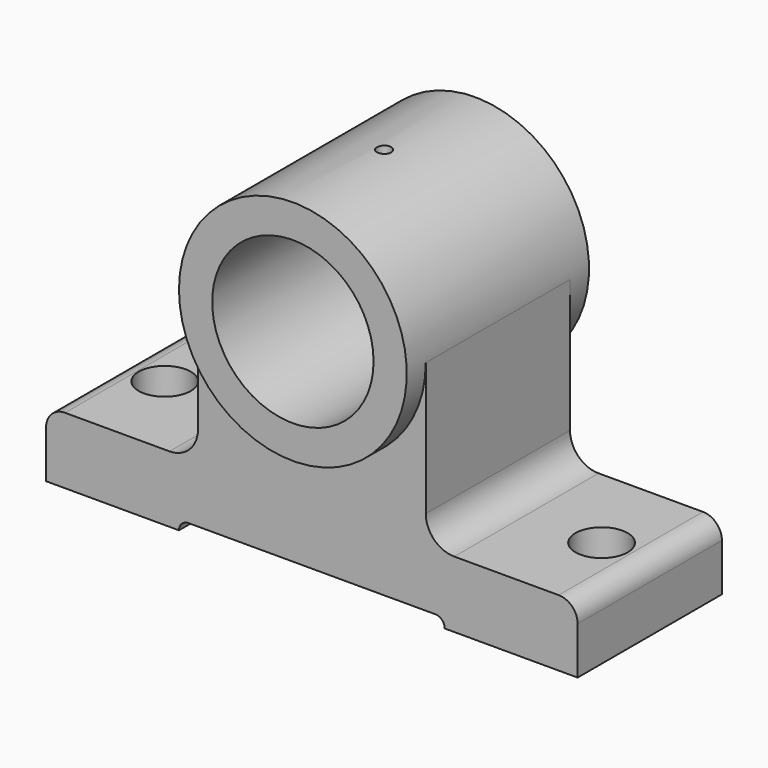
from build123d import *

# Parameters (mm, degrees)
F1_DEPTH = 30.1625
F0_R     = 26.9875
F2_DEPTH = 38.1
F3_R     = 8.73125
F4_DEPTH = 25.4
F5_R     = 8.73125
F6_DEPTH = 25.4
F8_R     = 2.38125
F9_DEPTH = 25.4


with BuildPart() as f1:
    # F0 (on Front) → F1 (new body, symmetric)
    with BuildSketch(Plane.XZ):
        with BuildLine():
            Line((-88.9, 15.875), (-88.9, 0))
            Line((-88.9, 0), (-44.45, 0))
            ThreePointArc((-44.45, 0), (-43.520064, 2.245064), (-41.275, 3.175))
            Line((-41.275, 3.175), (41.275, 3.175))
            ThreePointArc((41.275, 3.175), (43.520064, 2.245064), (44.45, 0))
            Line((44.45, 0), (88.9, 0))
            Line((88.9, 0), (88.9, 15.875))
            ThreePointArc((88.9, 15.875), (87.040128, 20.365128), (82.55, 22.225))
            Line((82.55, 22.225), (47.625, 22.225))
            ThreePointArc((47.625, 22.225), (40.889808, 25.014808), (38.1, 31.75))
            Line((38.1, 31.75), (38.1, 76.2))
            ThreePointArc((38.1, 76.2), (0, 38.1), (-38.1, 76.2))
            Line((-38.1, 76.2), (-38.1, 31.75))
            ThreePointArc((-38.1, 31.75), (-40.889808, 25.014808), (-47.625, 22.225))
            Line((-47.625, 22.225), (-82.55, 22.225))
            ThreePointArc((-82.55, 22.225), (-87.040128, 20.365128), (-88.9, 15.875))
        make_face()
    extrude(amount=F1_DEPTH, both=True)

    # F0 (on Front) → F2 (join, symmetric)
    with BuildSketch(Plane.XZ):
        with BuildLine():
            ThreePointArc((38.1, 76.2), (0, 114.3), (-38.1, 76.2))
            ThreePointArc((-38.1, 76.2), (0, 38.1), (38.1, 76.2))
        make_face()
        with Locations((0, 76.2)):
            Circle(F0_R, mode=Mode.SUBTRACT)
    extrude(amount=F2_DEPTH, both=True)

    # F3 (on face) → F4 (cut)
    with BuildSketch(Plane.XY.offset(22.225)):
        with Locations((72.782576, 0)):
            Circle(F3_R)
    extrude(amount=-F4_DEPTH, mode=Mode.SUBTRACT)

    # F5 (on face) → F6 (cut)
    with BuildSketch(Plane.XY.offset(22.225)):
        with Locations((-73.331527, 0)):
            Circle(F5_R)
    extrude(amount=-F6_DEPTH, mode=Mode.SUBTRACT)

    # F8 (on offset) → F9 (cut)
    with BuildSketch(Plane.XY.offset(114.3)):
        Circle(F8_R)
    extrude(amount=-F9_DEPTH, mode=Mode.SUBTRACT)


solid = f1.part
